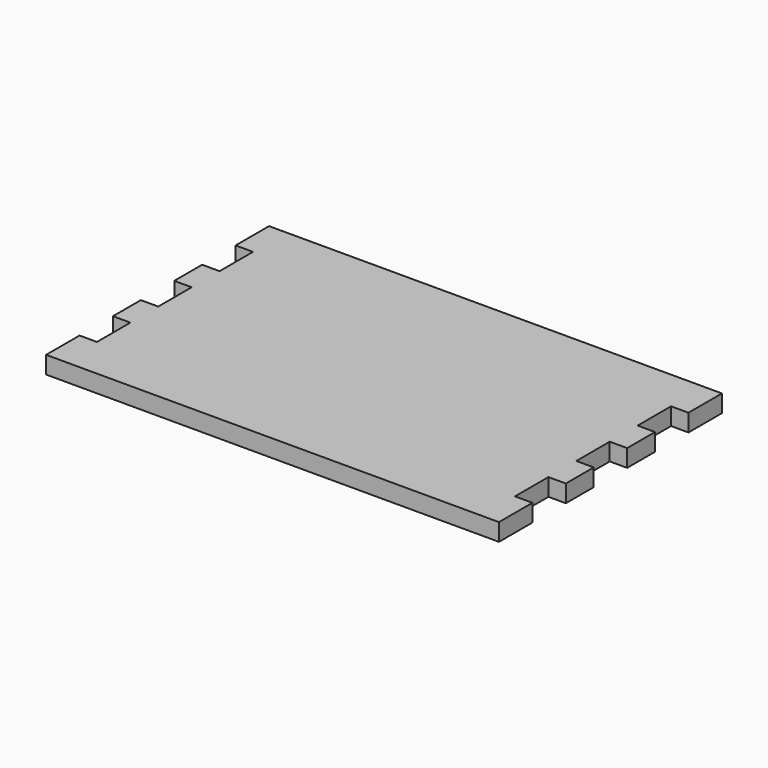
from build123d import *

# Parameters (mm, degrees)
F1_DEPTH = 3.175
F2_DEPTH = 9.525
F3_DEPTH = 9.525


with BuildPart() as f1:
    # F0 (on Top) → F1 (new body)
    with BuildSketch(Plane.XY):
        Polygon((0, 7.62), (0, 0), (101.6, 0), (101.6, 7.62), (88.9, 7.62), (88.9, 15.24), (101.6, 15.24), (101.6, 21.59), (88.9, 21.59), (88.9, 29.21), (101.6, 29.21), (101.6, 35.56), (88.9, 35.56), (88.9, 43.18), (101.6, 43.18), (101.6, 50.8), (0, 50.8), (0, 43.18), (12.7, 43.18), (12.7, 35.56), (0, 35.56), (0, 29.21), (12.7, 29.21), (12.7, 21.59), (0, 21.59), (0, 15.24), (12.7, 15.24), (12.7, 7.62), align=None)
    extrude(amount=F1_DEPTH)

    # F2 (cut): faces of the model
    f2_faces = [f1.faces().sort_by_distance(p)[0] for p in [
        (0, 46.99, 1.5875),
        (0, 32.385, 1.5875),
        (0, 18.415, 1.5875),
        (0, 3.81, 1.5875),
    ]]
    extrude(f2_faces, amount=-F2_DEPTH, mode=Mode.SUBTRACT)

    # F3 (cut): faces of the model
    f3_faces = [f1.faces().sort_by_distance(p)[0] for p in [
        (101.6, 3.81, 1.5875),
        (101.6, 18.415, 1.5875),
        (101.6, 32.385, 1.5875),
        (101.6, 46.99, 1.5875),
    ]]
    extrude(f3_faces, amount=-F3_DEPTH, mode=Mode.SUBTRACT)


solid = f1.part
